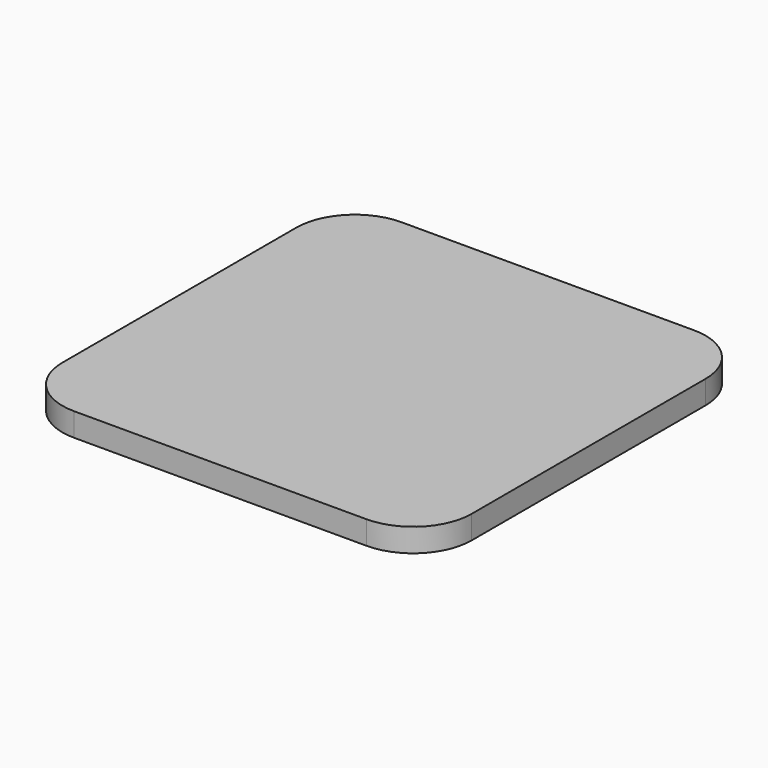
from build123d import *

# Parameters (mm, degrees)
PAD_DEPTH = 2


with BuildPart() as part:
    # Sketch → Pad (new body)
    with BuildSketch(Plane.XY):
        with BuildLine():
            Line((-17.5, 12.5), (-17.5, -12.5))
            ThreePointArc((-17.5, -12.5), (-16.035534, -16.035534), (-12.5, -17.5))
            Line((-12.5, -17.5), (12.5, -17.5))
            ThreePointArc((12.5, -17.5), (16.035534, -16.035534), (17.5, -12.5))
            Line((17.5, -12.5), (17.5, 12.5))
            ThreePointArc((17.5, 12.5), (16.035534, 16.035534), (12.5, 17.5))
            Line((12.5, 17.5), (-12.5, 17.5))
            ThreePointArc((-12.5, 17.5), (-16.035534, 16.035534), (-17.5, 12.5))
        make_face()
    extrude(amount=PAD_DEPTH)


solid = part.part
